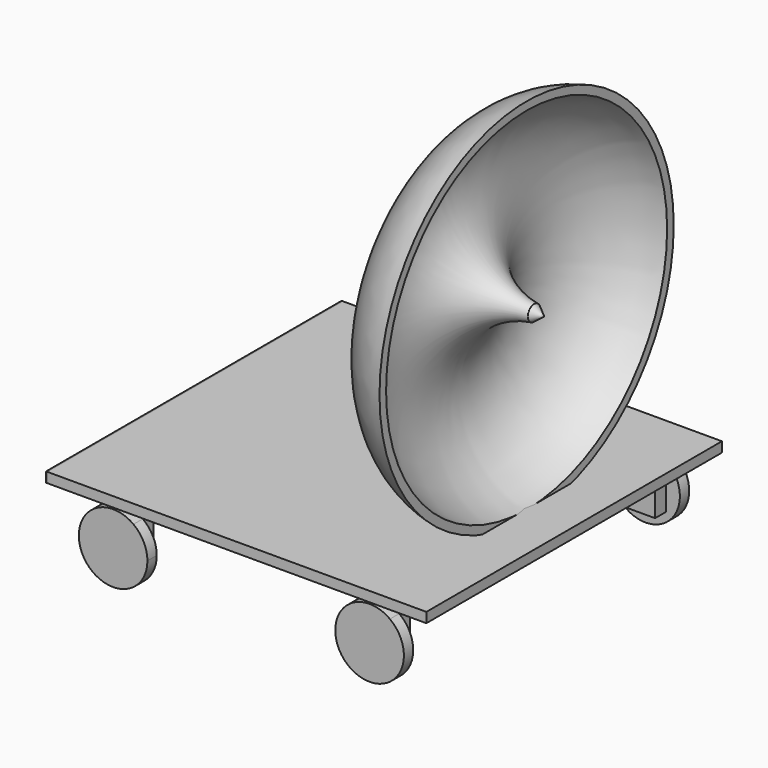
from build123d import *

# Parameters (mm, degrees)
F0_W     = 82.45929
F0_H     = 2.177143
F1_DEPTH = 40.18643
F2_W     = 8.852752
F2_H     = 2.950918
F3_DEPTH = 12.7
F5_DEPTH = 2.54


with BuildPart() as f1:
    # F0 (on Front) → F1 (new body, symmetric)
    with BuildSketch(Plane.XZ):
        with Locations((0.136072, -1.088572)):
            Rectangle(F0_W, F0_H)
    extrude(amount=F1_DEPTH, both=True)

    # F2 (on face) → F3 (join)
    with BuildSketch(Plane(origin=(0, 0, -2.177143), x_dir=(1, 0, 0), z_dir=(0, 0, -1))):
        with Locations((-27.897648, 34.778671)):
            Rectangle(F2_W, F2_H)
    extrude(amount=F3_DEPTH)

    # F4 (on face) → F5 (join)
    with BuildSketch(Plane.XZ.offset(36.25413)):
        with BuildLine():
            ThreePointArc((-32.324024, -4.878269), (-31.263087, -17.545747), (-20.435596, -10.885715))
            ThreePointArc((-20.435596, -10.885715), (-21.237616, -7.520275), (-23.471272, -4.878269))
            Line((-23.471272, -4.878269), (-23.471272, -14.877143))
            Line((-23.471272, -14.877143), (-32.324024, -14.877143))
            Line((-32.324024, -14.877143), (-32.324024, -4.878269))
        make_face()
        with BuildLine():
            Line((-23.471272, -14.877143), (-23.471272, -4.878269))
            ThreePointArc((-23.471272, -4.878269), (-27.897648, -3.423663), (-32.324024, -4.878269))
            Line((-32.324024, -4.878269), (-32.324024, -14.877143))
            Line((-32.324024, -14.877143), (-23.471272, -14.877143))
        make_face()
    extrude(amount=F5_DEPTH)


with BuildPart() as f6_1:
    # F6: instance of F1
    add(f1.part.mirror(Plane.YZ))


with BuildPart() as f7_1:
    # F7: instance of F6_1
    add(f6_1.part.mirror(Plane.XZ))


with BuildPart() as f7_2:
    # F7: instance of F1
    add(f1.part.mirror(Plane.XZ))


with BuildPart() as f10:
    # F9 (on offset) → F10 (revolve)
    with BuildSketch(Plane.XY.offset(38.1)):
        with BuildLine():
            Line((31.024285, 38.212035), (31.024285, 40.005002))
            ThreePointArc((31.024285, 40.005002), (14.719595, 19.30368), (32.657143, 0))
            Line((32.657143, 0), (34.892399, 0))
            Line((34.892399, 0), (32.657143, 1.703687))
            ThreePointArc((32.657143, 1.703687), (16.607444, 19.276544), (31.024285, 38.212035))
        make_face()
    revolve(axis=Axis((9.103202, 0, 38.1), (-1, 0, 0)))


solid = Compound([f1.part, f6_1.part, f7_1.part, f7_2.part, f10.part])
